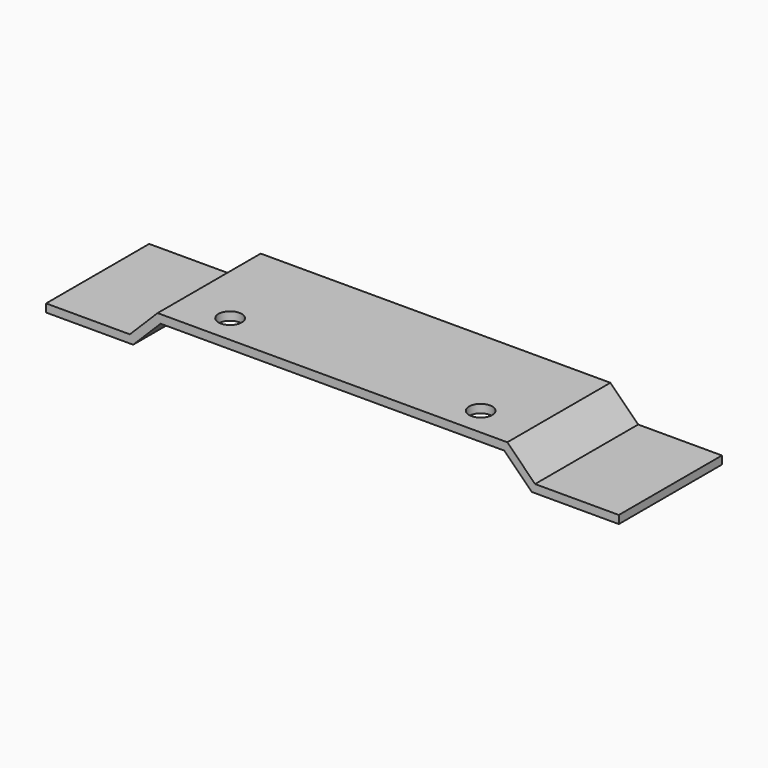
from build123d import *

# Parameters (mm, degrees)
F1_DEPTH = 57.15
F2_R     = 5.1562
F3_DEPTH = 25.4


with BuildPart() as f1:
    # F0 (on Front) → F1 (new body)
    with BuildSketch(Plane.XZ):
        Polygon((0, 3.57124), (0, 0), (38.627791, 0), (50.8, 12.172209), (51.9684, 12.172209), (127, 12.172209), (203.2, 12.172209), (215.372209, 0), (254, 0), (254, 3.57124), (216.851466, 3.57124), (204.547706, 15.875), (49.452294, 15.875), (37.148534, 3.57124), align=None)
    extrude(amount=F1_DEPTH)

    # F2 (on face) → F3 (cut)
    with BuildSketch(Plane(origin=(0, 0, 0), x_dir=(1, 0, 0), z_dir=(0, 0, -1))):
        with Locations((71.4502, 44.45)):
            Circle(F2_R)
        with Locations((182.5752, 44.45)):
            Circle(F2_R)
    extrude(amount=-F3_DEPTH, mode=Mode.SUBTRACT)


solid = f1.part
